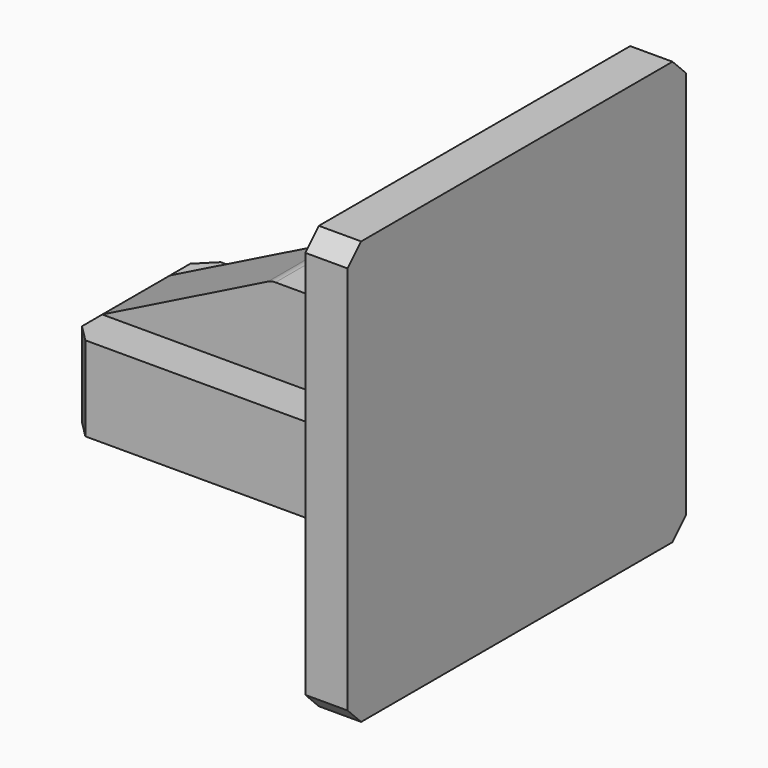
from build123d import *

# Parameters (mm, degrees)
F0_W     = 101.6
F0_H     = 25.4
F1_DEPTH = 25.4
F2_DEPTH = 12.7
F3_DEPTH = 63.5
F4_R     = 5.08
F5_SIZE  = 5.08


with BuildPart() as f1:
    # F0 (on Front) → F1 (new body, symmetric)
    with BuildSketch(Plane.XZ):
        Rectangle(F0_W, F0_H)
    extrude(amount=F1_DEPTH, both=True)

    # F0 (on Front) → F2 (join, symmetric)
    with BuildSketch(Plane.XZ):
        Polygon((-50.8, 12.7), (50.8, 12.7), (50.8, 38.1), (0, 38.1), align=None)
    extrude(amount=F2_DEPTH, both=True)

    # F0 (on Front) → F3 (join, symmetric)
    with BuildSketch(Plane.XZ):
        Polygon((50.8, 12.7), (50.8, -12.7), (50.8, -39.22494), (63.5, -39.22494), (63.5, 87.77506), (50.8, 87.77506), (50.8, 38.1), align=None)
    extrude(amount=F3_DEPTH, both=True)

    # F4
    f4_edges = [f1.edges().sort_by_distance(p)[0] for p in [
        (0, 0, 38.1),
    ]]
    fillet(f4_edges, radius=F4_R)

    # F5
    f5_edges = [f1.edges().sort_by_distance(p)[0] for p in [
        (57.15, 63.5, 87.77506),
        (57.15, -63.5, 87.77506),
        (57.15, 63.5, -39.22494),
        (57.15, -63.5, -39.22494),
        (-50.8, 25.4, 0),
        (-50.8, -25.4, 0),
    ]]
    chamfer(f5_edges, length=F5_SIZE)


solid = f1.part
